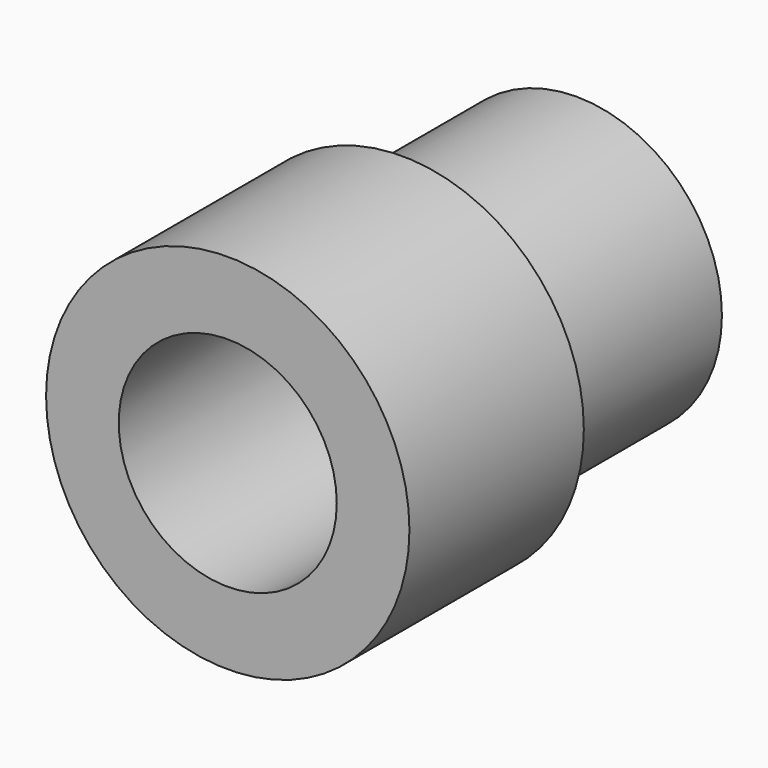
from build123d import *

# Parameters (mm, degrees)
F0_R     = 6.35
F0_R_2   = 4.7625
F1_DEPTH = 9.525
F2_R     = 7.9375
F2_R_2   = 6.35
F2_R_3   = 4.7625
F3_DEPTH = 9.525


with BuildPart() as f1:
    # F0 (on Front) → F1 (new body)
    with BuildSketch(Plane.XZ):
        Circle(F0_R)
        Circle(F0_R_2, mode=Mode.SUBTRACT)
    extrude(amount=F1_DEPTH)

    # F2 (on face) → F3 (join)
    with BuildSketch(Plane.XZ.offset(9.525)):
        Circle(F2_R)
        Circle(F2_R_2, mode=Mode.SUBTRACT)
        Circle(F2_R_2)
        Circle(F2_R_3, mode=Mode.SUBTRACT)
    extrude(amount=F3_DEPTH)


solid = f1.part
